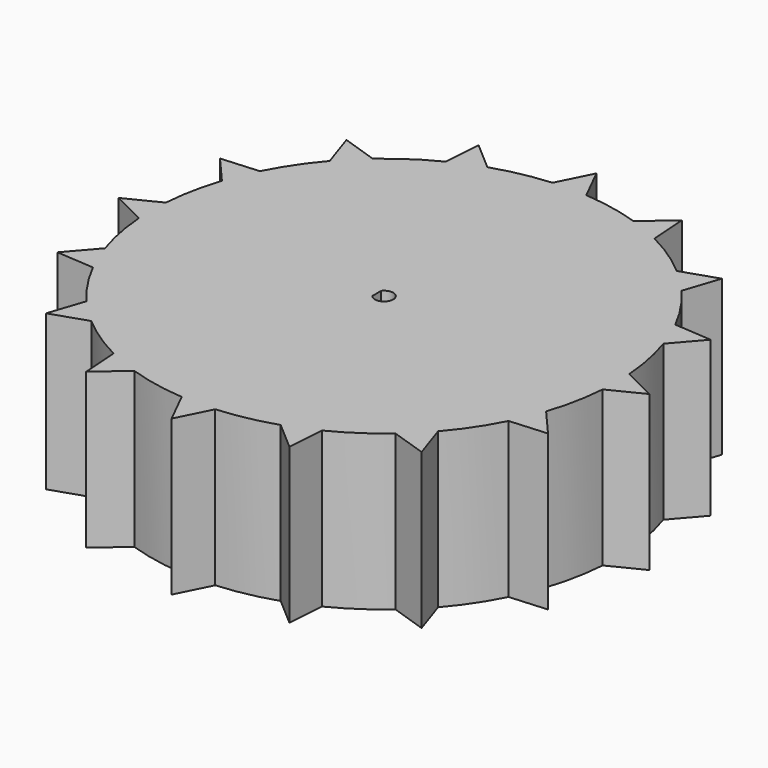
from build123d import *

# Parameters (mm, degrees)
F1_DEPTH = 25.4


with BuildPart() as f1:
    # F0 (on Top) → F1 (new body)
    with BuildSketch(Plane.XY):
        with BuildLine():
            ThreePointArc((24.925791, 28.823037), (21.170498, 31.679588), (17.090927, 34.050076))
            ThreePointArc((17.090927, 34.050076), (14.57781, 35.197048), (11.988191, 36.158908))
            ThreePointArc((11.988191, 36.158908), (7.433391, 37.358513), (2.76538, 37.986939))
            ThreePointArc((2.76538, 37.986939), (-0.001045, 38.085553), (-2.767328, 37.983043))
            ThreePointArc((-2.767328, 37.983043), (-7.427413, 37.349446), (-11.973936, 36.146544))
            Line((-11.973936, 36.146544), (-16.653502, 40.205111))
            Line((-16.653502, 40.205111), (-17.092835, 34.023228))
            ThreePointArc((-17.092835, 34.023228), (-21.151694, 31.657699), (-24.888573, 28.810631))
            ThreePointArc((-24.888573, 28.810631), (-26.920885, 26.920424), (-28.810201, 24.887283))
            ThreePointArc((-28.810201, 24.887283), (-31.65439, 21.151013), (-34.017375, 17.093251))
            ThreePointArc((-34.017375, 17.093251), (-35.172639, 14.569137), (-36.141055, 11.967607))
            ThreePointArc((-36.141055, 11.967607), (-37.340492, 7.426734), (-37.972124, 2.772787))
            ThreePointArc((-37.972124, 2.772787), (-38.074208, 0.000586), (-37.97431, -2.771694))
            ThreePointArc((-37.97431, -2.771694), (-37.345567, -7.430077), (-36.147972, -11.975582))
            ThreePointArc((-36.147972, -11.975582), (-35.183255, -14.572363), (-34.032406, -17.092183))
            ThreePointArc((-34.032406, -17.092183), (-31.666642, -21.161537), (-28.817145, -24.908115))
            ThreePointArc((-28.817145, -24.908115), (-26.935898, -26.934271), (-24.912668, -28.818662))
            ThreePointArc((-24.912668, -28.818662), (-21.163944, -31.678379), (-17.090707, -34.053174))
            ThreePointArc((-17.090707, -34.053174), (-14.582657, -35.202551), (-11.998008, -36.167422))
            ThreePointArc((-11.998008, -36.167422), (-7.432483, -37.377309), (-2.752341, -38.013016))
            ThreePointArc((-2.752341, -38.013016), (-0.001039, -38.114428), (2.750404, -38.016891))
            ThreePointArc((2.750404, -38.016891), (7.438476, -37.38638), (12.012287, -36.179806))
            ThreePointArc((12.012287, -36.179806), (14.588438, -35.221528), (17.088799, -34.080017))
            ThreePointArc((17.088799, -34.080017), (21.182762, -31.700278), (24.949903, -28.831074))
            ThreePointArc((24.949903, -28.831074), (26.960653, -26.961109), (28.831499, -24.951179))
            ThreePointArc((28.831499, -24.951179), (31.703596, -21.183438), (34.085889, -17.088382))
            ThreePointArc((34.085889, -17.088382), (35.22698, -14.591342), (36.185293, -12.018614))
            ThreePointArc((36.185293, -12.018614), (37.395343, -7.439154), (38.02782, -2.744939))
            ThreePointArc((38.02782, -2.744939), (38.125786, 0.00058), (38.025656, 2.746021))
            ThreePointArc((38.025656, 2.746021), (37.390265, 7.435795), (36.178356, 12.010615))
            ThreePointArc((36.178356, 12.010615), (35.216354, 14.588102), (34.070863, 17.08945))
            ThreePointArc((34.070863, 17.08945), (31.691334, 21.1729), (28.824549, 24.930329))
            ThreePointArc((28.824549, 24.930329), (26.945625, 26.947247), (24.925791, 28.823037))
        make_face()
        with BuildLine():
            ThreePointArc((-1.174211, 0.885562), (1.525789, -0.014438), (-1.174211, -0.914438))
            Line((-1.174211, -0.914438), (-1.174211, 0.885562))
        make_face(mode=Mode.SUBTRACT)
        with BuildLine():
            ThreePointArc((11.988191, 36.158908), (14.57781, 35.197048), (17.090927, 34.050076))
            Line((17.090927, 34.050076), (16.653502, 40.205111))
            Line((16.653502, 40.205111), (11.988191, 36.158908))
        make_face()
        with BuildLine():
            Line((30.77166, 30.77166), (24.925791, 28.823037))
            ThreePointArc((24.925791, 28.823037), (26.945625, 26.947247), (28.824549, 24.930329))
            Line((28.824549, 24.930329), (30.77166, 30.77166))
        make_face()
        with BuildLine():
            ThreePointArc((-2.767328, 37.983043), (-0.001045, 38.085553), (2.76538, 37.986939))
            Line((2.76538, 37.986939), (0, 43.517698))
            Line((0, 43.517698), (-2.767328, 37.983043))
        make_face()
        with BuildLine():
            Line((40.205111, 16.653502), (34.070863, 17.08945))
            ThreePointArc((34.070863, 17.08945), (35.216354, 14.588102), (36.178356, 12.010615))
            Line((36.178356, 12.010615), (40.205111, 16.653502))
        make_face()
        with BuildLine():
            Line((43.517698, 0), (38.025656, 2.746021))
            ThreePointArc((38.025656, 2.746021), (38.125786, 0.00058), (38.02782, -2.744939))
            Line((38.02782, -2.744939), (43.517698, 0))
        make_face()
        with BuildLine():
            ThreePointArc((-28.810201, 24.887283), (-26.920885, 26.920424), (-24.888573, 28.810631))
            Line((-24.888573, 28.810631), (-30.77166, 30.77166))
            Line((-30.77166, 30.77166), (-28.810201, 24.887283))
        make_face()
        with BuildLine():
            Line((40.205111, -16.653502), (36.185293, -12.018614))
            ThreePointArc((36.185293, -12.018614), (35.22698, -14.591342), (34.085889, -17.088382))
            Line((34.085889, -17.088382), (40.205111, -16.653502))
        make_face()
        with BuildLine():
            ThreePointArc((-36.141055, 11.967607), (-35.172639, 14.569137), (-34.017375, 17.093251))
            Line((-34.017375, 17.093251), (-40.205111, 16.653502))
            Line((-40.205111, 16.653502), (-36.141055, 11.967607))
        make_face()
        with BuildLine():
            Line((30.77166, -30.77166), (28.831499, -24.951179))
            ThreePointArc((28.831499, -24.951179), (26.960653, -26.961109), (24.949903, -28.831074))
            Line((24.949903, -28.831074), (30.77166, -30.77166))
        make_face()
        with BuildLine():
            ThreePointArc((-37.97431, -2.771694), (-38.074208, 0.000586), (-37.972124, 2.772787))
            Line((-37.972124, 2.772787), (-43.517698, 0))
            Line((-43.517698, 0), (-37.97431, -2.771694))
        make_face()
        with BuildLine():
            Line((16.653502, -40.205111), (17.088799, -34.080017))
            ThreePointArc((17.088799, -34.080017), (14.588438, -35.221528), (12.012287, -36.179806))
            Line((12.012287, -36.179806), (16.653502, -40.205111))
        make_face()
        with BuildLine():
            ThreePointArc((-34.032406, -17.092183), (-35.183255, -14.572363), (-36.147972, -11.975582))
            Line((-36.147972, -11.975582), (-40.205111, -16.653502))
            Line((-40.205111, -16.653502), (-34.032406, -17.092183))
        make_face()
        with BuildLine():
            Line((0, -43.517698), (2.750404, -38.016891))
            ThreePointArc((2.750404, -38.016891), (-0.001039, -38.114428), (-2.752341, -38.013016))
            Line((-2.752341, -38.013016), (0, -43.517698))
        make_face()
        with BuildLine():
            ThreePointArc((-24.912668, -28.818662), (-26.935898, -26.934271), (-28.817145, -24.908115))
            Line((-28.817145, -24.908115), (-30.77166, -30.77166))
            Line((-30.77166, -30.77166), (-24.912668, -28.818662))
        make_face()
        with BuildLine():
            Line((-16.653502, -40.205111), (-11.998008, -36.167422))
            ThreePointArc((-11.998008, -36.167422), (-14.582657, -35.202551), (-17.090707, -34.053174))
            Line((-17.090707, -34.053174), (-16.653502, -40.205111))
        make_face()
    extrude(amount=F1_DEPTH)


solid = f1.part
